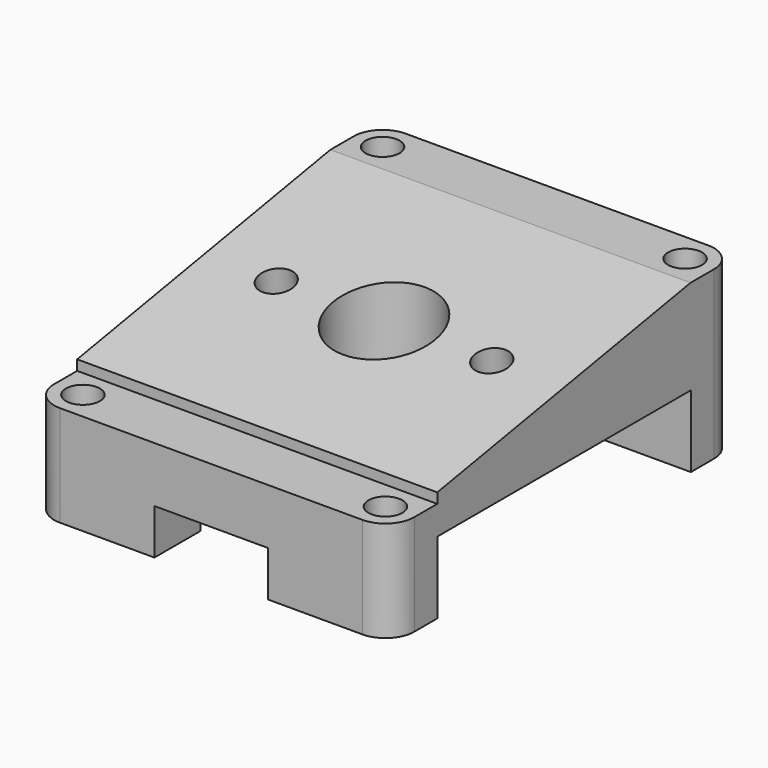
from build123d import *

# Parameters (mm, degrees)
F0_R      = 1.5
F0_R_2    = 4.5
F1_DEPTH  = 2.54
F2_R      = 1.5
F3_DEPTH  = 6.35
F4_W      = 10
F4_H      = 4
F5_DEPTH  = 38.101
F7_DEPTH  = 25.4
F8_W      = 51.0473959148
F8_H      = 75.9243667126
F9_DEPTH  = 25.4
F11_W     = 50.7149714977
F11_H     = 15.4611356556
F12_DEPTH = 25.4
F14_W     = 45.2918484807
F14_H     = 5.08
F15_DEPTH = 25.4
F16_R     = 1.5
F17_DEPTH = 25.4
F19_R     = 3
F19_R_2   = 1.5
F20_DEPTH = 25.4


with BuildPart() as f1:
    # F0 (on Top) → F1 (new body)
    with BuildSketch(Plane.XY):
        with BuildLine():
            ThreePointArc((15.875, 16.51), (15.1310512242, 18.3060512242), (13.335, 19.05))
            Line((13.335, 19.05), (-13.335, 19.05))
            ThreePointArc((-13.335, 19.05), (-15.1310512242, 18.3060512242), (-15.875, 16.51))
            Line((-15.875, 16.51), (-15.875, -16.51))
            ThreePointArc((-15.875, -16.51), (-15.1310512242, -18.3060512242), (-13.335, -19.05))
            Line((-13.335, -19.05), (13.335, -19.05))
            ThreePointArc((13.335, -19.05), (15.1310512242, -18.3060512242), (15.875, -16.51))
            Line((15.875, -16.51), (15.875, 16.51))
        make_face()
        with Locations((-13.335, -16.51)):
            Circle(F0_R, mode=Mode.SUBTRACT)
        with Locations((13.335, -16.51)):
            Circle(F0_R, mode=Mode.SUBTRACT)
        with Locations((-13.335, 16.51)):
            Circle(F0_R, mode=Mode.SUBTRACT)
        Circle(F0_R_2, mode=Mode.SUBTRACT)
        with Locations((13.335, 16.51)):
            Circle(F0_R, mode=Mode.SUBTRACT)
    extrude(amount=F1_DEPTH)

    # F2 (on face) → F3 (join)
    with BuildSketch(Plane(origin=(0, 0, 0), x_dir=(1, 0, 0), z_dir=(0, 0, -1))):
        with BuildLine():
            Line((-15.875, 16.51), (-15.875, 13.97))
            Line((-15.875, 13.97), (15.875, 13.97))
            Line((15.875, 13.97), (15.875, 16.51))
            ThreePointArc((15.875, 16.51), (15.1310512242, 18.3060512242), (13.335, 19.05))
            Line((13.335, 19.05), (-13.335, 19.05))
            ThreePointArc((-13.335, 19.05), (-15.1310512242, 18.3060512242), (-15.875, 16.51))
        make_face()
        with Locations((-13.335, 16.51)):
            Circle(F2_R, mode=Mode.SUBTRACT)
        with Locations((13.335, 16.51)):
            Circle(F2_R, mode=Mode.SUBTRACT)
        with BuildLine():
            Line((15.875, -13.97), (-15.875, -13.97))
            Line((-15.875, -13.97), (-15.875, -16.51))
            ThreePointArc((-15.875, -16.51), (-15.1310512242, -18.3060512242), (-13.335, -19.05))
            Line((-13.335, -19.05), (13.335, -19.05))
            ThreePointArc((13.335, -19.05), (15.1310512242, -18.3060512242), (15.875, -16.51))
            Line((15.875, -16.51), (15.875, -13.97))
        make_face()
        with Locations((-13.335, -16.51)):
            Circle(F2_R, mode=Mode.SUBTRACT)
        with Locations((13.335, -16.51)):
            Circle(F2_R, mode=Mode.SUBTRACT)
    extrude(amount=F3_DEPTH)

    # F4 (on face) → F5 (cut, through all)
    with BuildSketch(Plane(origin=(0, 19.05, 0), x_dir=(-1, 0, 0), z_dir=(0, 1, 0))):
        with Locations((0, -4.35)):
            Rectangle(F4_W, F4_H)
    extrude(amount=-F5_DEPTH, mode=Mode.SUBTRACT)

    # F7 (add): a face of the model
    f7_faces = [f1.faces().sort_by_distance(p)[0] for p in [
        (14.7803610119, 17.9553610119, 2.54),
    ]]
    extrude(f7_faces, amount=F7_DEPTH)

    # F8 (on face) → F9 (cut)
    with BuildSketch(Plane(origin=(0, -1.008793369, 5.7211514936), x_dir=(1, 0, 0), z_dir=(0, -0.1736481777, 0.984807753))):
        with Locations((4.5789629221, 5.4835118353)):
            Rectangle(F8_W, F8_H)
    extrude(amount=F9_DEPTH, mode=Mode.SUBTRACT)

    # F11 (on offset) → F12 (cut)
    with BuildSketch(Plane(origin=(0, 0, 8.3566), x_dir=(1, 0, 0), z_dir=(0, 0, -1))):
        with Locations((4.4036144391, -15.0017738342)):
            Rectangle(F11_W, F11_H)
    extrude(amount=-F12_DEPTH, mode=Mode.SUBTRACT)

    # F14 (on offset) → F15 (cut)
    with BuildSketch(Plane(origin=(0, 0, 2.54), x_dir=(1, 0, 0), z_dir=(0, 0, -1))):
        with Locations((0.4216730595, 16.51)):
            Rectangle(F14_W, F14_H)
    extrude(amount=-F15_DEPTH, mode=Mode.SUBTRACT)

    # F16 (on face) → F17 (cut)
    with BuildSketch(Plane(origin=(0, -1.008793369, 5.7211514936), x_dir=(1, 0, 0), z_dir=(0, -0.1736481777, 0.984807753))):
        with Locations((-9.5, 1.0243556328)):
            Circle(F16_R)
        with BuildLine():
            ThreePointArc((11, 1.0243556328), (9.5, 2.5243556328), (8, 1.0243556328))
            ThreePointArc((8, 1.0243556328), (9.5, -0.4756443672), (11, 1.0243556328))
        make_face()
    extrude(amount=-F17_DEPTH, mode=Mode.SUBTRACT)

    # F19 (on offset) → F20 (cut)
    with BuildSketch(Plane(origin=(0, -0.1266606265, 0.7183281083), x_dir=(1, 0, 0), z_dir=(0, -0.1736481777, 0.984807753))):
        with Locations((9.5, 1.0243556328)):
            Circle(F19_R)
        with Locations((9.5, 1.0243556328)):
            Circle(F19_R_2, mode=Mode.SUBTRACT)
        with Locations((-9.5, 1.0243556328)):
            Circle(F19_R)
        with Locations((-9.5, 1.0243556328)):
            Circle(F19_R_2, mode=Mode.SUBTRACT)
    extrude(amount=-F20_DEPTH, mode=Mode.SUBTRACT)


solid = f1.part
